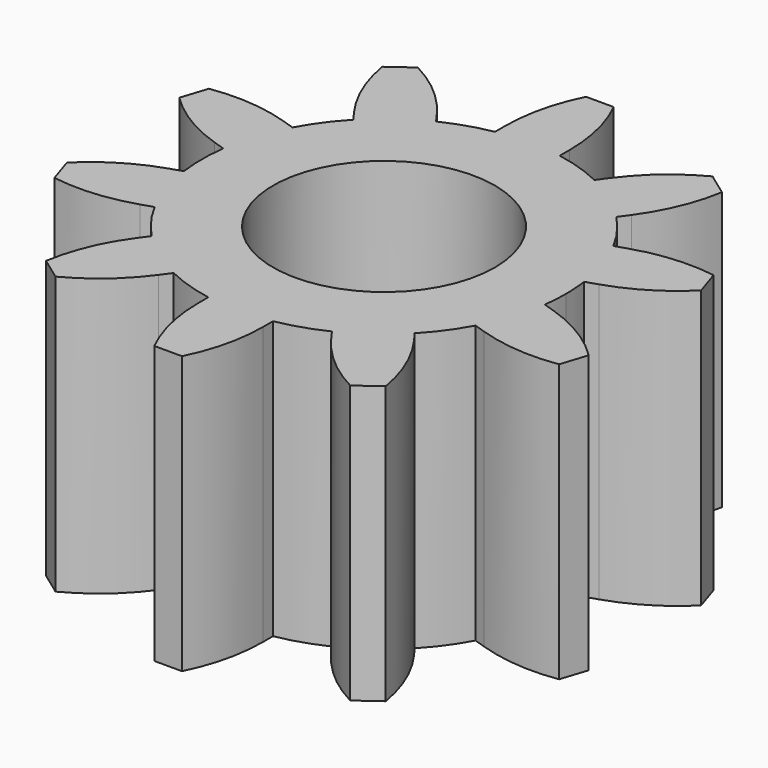
from build123d import *

# Parameters (mm, degrees)
F0_R     = 6
F1_DEPTH = 15
F2_R     = 9.45


with BuildPart() as f1:
    # F0 (on Top) → F1 (new body)
    with BuildSketch(Plane.XY):
        with BuildLine():
            Line((12.517717, -2.227194), (9.759653, -1.331044))
            ThreePointArc((9.759653, -1.331044), (9.367907, -3.043817), (8.678093, -4.659742))
            Line((8.678093, -4.659742), (11.436157, -5.555892))
            Line((11.436157, -5.555892), (13.647287, -5.222869))
            Line((13.647287, -5.222869), (14.110813, -3.796284))
            Line((14.110813, -3.796284), (12.517717, -2.227194))
        make_face()
        with BuildLine():
            Line((8.817934, -9.159567), (7.113357, -6.813418))
            ThreePointArc((7.113357, -6.813418), (5.789685, -7.968817), (4.281797, -8.870666))
            Line((4.281797, -8.870666), (5.986374, -11.216815))
            Line((5.986374, -11.216815), (7.970962, -12.247064))
            Line((7.970962, -12.247064), (9.184487, -11.365386))
            Line((9.184487, -11.365386), (8.817934, -9.159567))
        make_face()
        with BuildLine():
            ThreePointArc((9.759653, -1.331044), (9.827387, -0.667054), (9.85, 0))
            ThreePointArc((9.85, 0), (9.827387, 0.667054), (9.759653, 1.331044))
            ThreePointArc((9.759653, 1.331044), (9.367907, 3.043817), (8.678093, 4.659742))
            ThreePointArc((8.678093, 4.659742), (7.968817, 5.789685), (7.113357, 6.813418))
            ThreePointArc((7.113357, 6.813418), (5.789685, 7.968817), (4.281797, 8.870666))
            ThreePointArc((4.281797, 8.870666), (3.043817, 9.367907), (1.75, 9.693297))
            ThreePointArc((1.75, 9.693297), (0, 9.85), (-1.75, 9.693297))
            ThreePointArc((-1.75, 9.693297), (-3.043817, 9.367907), (-4.281797, 8.870666))
            ThreePointArc((-4.281797, 8.870666), (-5.789685, 7.968817), (-7.113357, 6.813418))
            ThreePointArc((-7.113357, 6.813418), (-7.968817, 5.789685), (-8.678093, 4.659742))
            ThreePointArc((-8.678093, 4.659742), (-9.367907, 3.043817), (-9.759653, 1.331044))
            ThreePointArc((-9.759653, 1.331044), (-9.85, 0), (-9.759653, -1.331044))
            ThreePointArc((-9.759653, -1.331044), (-9.367907, -3.043817), (-8.678093, -4.659742))
            ThreePointArc((-8.678093, -4.659742), (-7.968817, -5.789685), (-7.113357, -6.813418))
            ThreePointArc((-7.113357, -6.813418), (-5.789685, -7.968817), (-4.281797, -8.870666))
            ThreePointArc((-4.281797, -8.870666), (-3.043817, -9.367907), (-1.75, -9.693297))
            ThreePointArc((-1.75, -9.693297), (0, -9.85), (1.75, -9.693297))
            ThreePointArc((1.75, -9.693297), (3.043817, -9.367907), (4.281797, -8.870666))
            ThreePointArc((4.281797, -8.870666), (5.789685, -7.968817), (7.113357, -6.813418))
            ThreePointArc((7.113357, -6.813418), (7.968817, -5.789685), (8.678093, -4.659742))
            ThreePointArc((8.678093, -4.659742), (9.367907, -3.043817), (9.759653, -1.331044))
        make_face()
        Circle(F0_R, mode=Mode.SUBTRACT)
        with BuildLine():
            ThreePointArc((8.678093, 4.659742), (9.367907, 3.043817), (9.759653, 1.331044))
            Line((9.759653, 1.331044), (12.517717, 2.227194))
            Line((12.517717, 2.227194), (14.110813, 3.796284))
            Line((14.110813, 3.796284), (13.647287, 5.222869))
            Line((13.647287, 5.222869), (11.436157, 5.555892))
            Line((11.436157, 5.555892), (8.678093, 4.659742))
        make_face()
        with BuildLine():
            ThreePointArc((4.281797, 8.870666), (5.789685, 7.968817), (7.113357, 6.813418))
            Line((7.113357, 6.813418), (8.817934, 9.159567))
            Line((8.817934, 9.159567), (9.184487, 11.365386))
            Line((9.184487, 11.365386), (7.970962, 12.247064))
            Line((7.970962, 12.247064), (5.986374, 11.216815))
            Line((5.986374, 11.216815), (4.281797, 8.870666))
        make_face()
        with BuildLine():
            ThreePointArc((-1.75, 9.693297), (0, 9.85), (1.75, 9.693297))
            Line((1.75, 9.693297), (1.75, 12.593297))
            Line((1.75, 12.593297), (0.75, 14.593297))
            Line((0.75, 14.593297), (-0.75, 14.593297))
            Line((-0.75, 14.593297), (-1.75, 12.593297))
            Line((-1.75, 12.593297), (-1.75, 9.693297))
        make_face()
        with BuildLine():
            ThreePointArc((-7.113357, 6.813418), (-5.789685, 7.968817), (-4.281797, 8.870666))
            Line((-4.281797, 8.870666), (-5.986374, 11.216815))
            Line((-5.986374, 11.216815), (-7.970962, 12.247064))
            Line((-7.970962, 12.247064), (-9.184487, 11.365386))
            Line((-9.184487, 11.365386), (-8.817934, 9.159567))
            Line((-8.817934, 9.159567), (-7.113357, 6.813418))
        make_face()
        with BuildLine():
            ThreePointArc((-9.759653, 1.331044), (-9.367907, 3.043817), (-8.678093, 4.659742))
            Line((-8.678093, 4.659742), (-11.436157, 5.555892))
            Line((-11.436157, 5.555892), (-13.647287, 5.222869))
            Line((-13.647287, 5.222869), (-14.110813, 3.796284))
            Line((-14.110813, 3.796284), (-12.517717, 2.227194))
            Line((-12.517717, 2.227194), (-9.759653, 1.331044))
        make_face()
        with BuildLine():
            Line((-11.436157, -5.555892), (-8.678093, -4.659742))
            ThreePointArc((-8.678093, -4.659742), (-9.367907, -3.043817), (-9.759653, -1.331044))
            Line((-9.759653, -1.331044), (-12.517717, -2.227194))
            Line((-12.517717, -2.227194), (-14.110813, -3.796284))
            Line((-14.110813, -3.796284), (-13.647287, -5.222869))
            Line((-13.647287, -5.222869), (-11.436157, -5.555892))
        make_face()
        with BuildLine():
            Line((-5.986374, -11.216815), (-4.281797, -8.870666))
            ThreePointArc((-4.281797, -8.870666), (-5.789685, -7.968817), (-7.113357, -6.813418))
            Line((-7.113357, -6.813418), (-8.817934, -9.159567))
            Line((-8.817934, -9.159567), (-9.184487, -11.365386))
            Line((-9.184487, -11.365386), (-7.970962, -12.247064))
            Line((-7.970962, -12.247064), (-5.986374, -11.216815))
        make_face()
        with BuildLine():
            Line((1.75, -12.593297), (1.75, -9.693297))
            ThreePointArc((1.75, -9.693297), (0, -9.85), (-1.75, -9.693297))
            Line((-1.75, -9.693297), (-1.75, -12.593297))
            Line((-1.75, -12.593297), (-0.75, -14.593297))
            Line((-0.75, -14.593297), (0.75, -14.593297))
            Line((0.75, -14.593297), (1.75, -12.593297))
        make_face()
    extrude(amount=F1_DEPTH)

    # F2
    f2_edges = [f1.edges().sort_by_distance(p)[0] for p in [
        (8.817934, -9.159567, 7.5),
        (5.986374, -11.216815, 7.5),
        (11.436157, -5.555892, 7.5),
        (12.517717, -2.227194, 7.5),
        (12.517717, 2.227194, 7.5),
        (11.436157, 5.555892, 7.5),
        (8.817934, 9.159567, 7.5),
        (5.986374, 11.216815, 7.5),
        (1.75, 12.593297, 7.5),
        (-1.75, 12.593297, 7.5),
        (-5.986374, 11.216815, 7.5),
        (-8.817934, 9.159567, 7.5),
        (-11.436157, 5.555892, 7.5),
        (-12.517717, 2.227194, 7.5),
        (-12.517717, -2.227194, 7.5),
        (-11.436157, -5.555892, 7.5),
        (-8.817934, -9.159567, 7.5),
        (-5.986374, -11.216815, 7.5),
        (-1.75, -12.593297, 7.5),
        (1.75, -12.593297, 7.5),
    ]]
    fillet(f2_edges, radius=F2_R)


solid = f1.part
